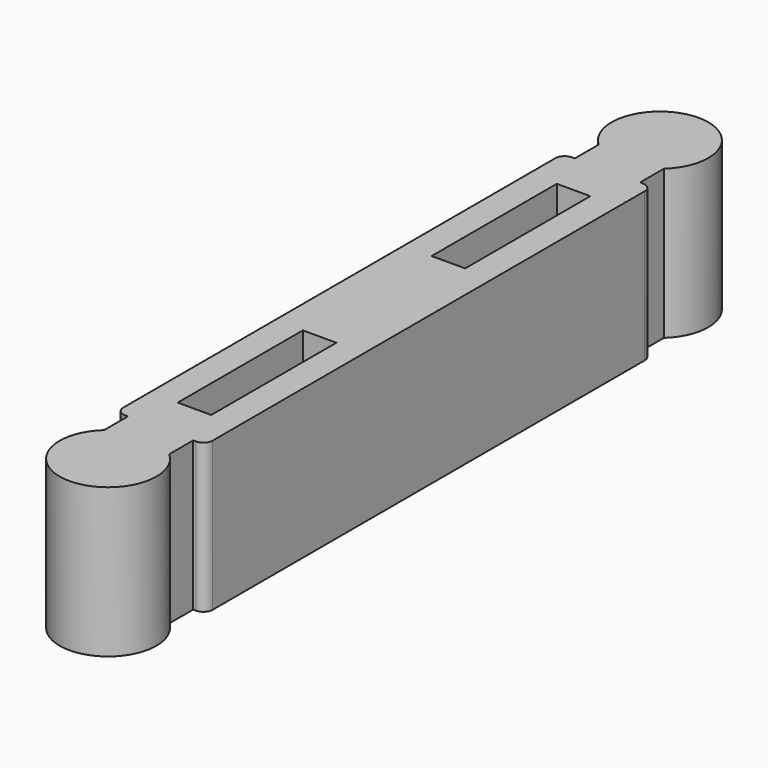
from build123d import *

# Parameters (mm, degrees)
F0_R     = 3.302
F1_DEPTH = 10.16
F3_DEPTH = 10.16
F4_W     = 6.096
F4_H     = 19.05
F5_DEPTH = 10.16
F6_R     = 0.635
F7_W     = 2.286
F7_H     = 10.668
F8_DEPTH = 25.4


with BuildPart() as f1:
    # F0 (on Top) → F1 (new body)
    with BuildSketch(Plane.XY):
        Circle(F0_R)
    extrude(amount=F1_DEPTH)

    # F2 (on face) → F3 (join, through all)
    with BuildSketch(Plane(origin=(0, 0, 0), x_dir=(1, 0, 0), z_dir=(0, 0, -1))):
        with BuildLine():
            ThreePointArc((2.2225, -2.442068), (0, -3.302), (-2.2225, -2.442068))
            Line((-2.2225, -2.442068), (-2.2225, -4.474068))
            Line((-2.2225, -4.474068), (2.2225, -4.474068))
            Line((2.2225, -4.474068), (2.2225, -2.442068))
        make_face()
    extrude(amount=-F3_DEPTH)

    # F4 (on Top) → F5 (join, through all)
    with BuildSketch(Plane.XY):
        with Locations((0, 13.999068)):
            Rectangle(F4_W, F4_H)
    extrude(amount=F5_DEPTH)

    # F6
    f6_edges = [f1.edges().sort_by_distance(p)[0] for p in [
        (3.048, 4.474068, 5.08),
        (-3.048, 4.474068, 5.08),
    ]]
    fillet(f6_edges, radius=F6_R)

    # F7 (on face) → F8 (cut)
    with BuildSketch(Plane.XY.offset(10.16)):
        with Locations((0, 12.7)):
            Rectangle(F7_W, F7_H)
    extrude(amount=-F8_DEPTH, mode=Mode.SUBTRACT)

    # F9: F1 across face


with BuildPart() as f1_1:
    add(f1.part)
    add(f1.part.mirror(Plane(origin=(0, 23.524068, 5.08), x_dir=(-1, 0, 0), z_dir=(0, 1, 0))))


solid = f1_1.part
